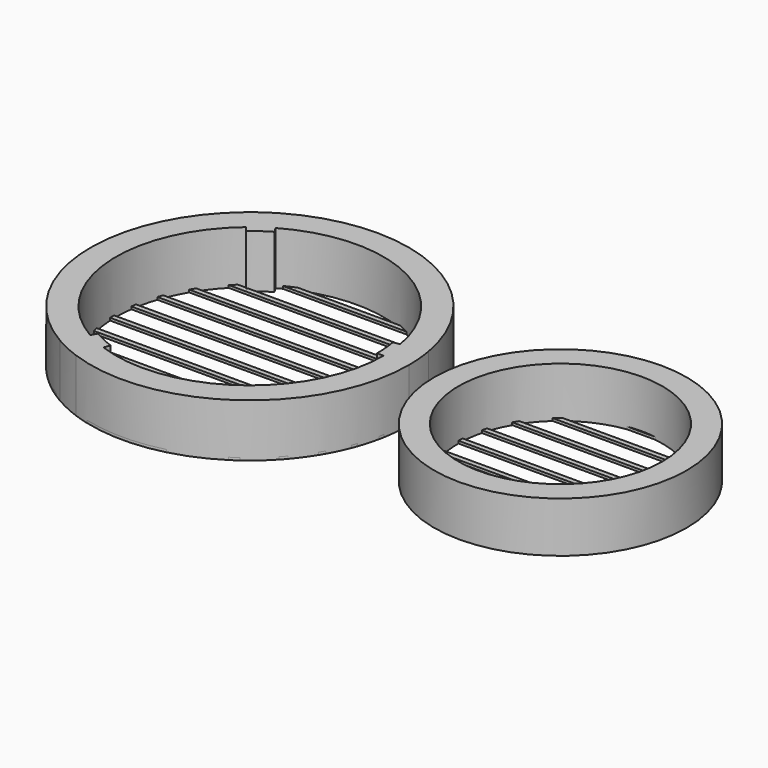
from build123d import *

# Parameters (mm, degrees)
BOX_W             = 50
BOX_H             = 1
BOX_DEPTH         = 0.5
ARRAY_Y_COUNT     = 11
ARRAY_Y_PITCH     = 5
CYLINDER001_R     = 25
CYLINDER001_DEPTH = 10
CYLINDER_R        = 20.2
CYLINDER_DEPTH    = 50
CYLINDER004_R     = 26.5
CYLINDER004_DEPTH = 10.5
CYLINDER002_R     = 31.5
CYLINDER002_DEPTH = 10.5
BOX001_W          = 63
BOX001_H          = 1
BOX001_DEPTH      = 0.5
ARRAY002_Y_COUNT  = 14
ARRAY002_Y_PITCH  = 5
CYLINDER003_R     = 25.2
CYLINDER003_DEPTH = 10.5
CYLINDER005_W     = 31.5
CYLINDER005_H     = 10.5
CYLINDER005_ANGLE = 10
ARRAY001_COUNT    = 3


with BuildPart() as obj1:
    # Box → Box (new body)
    with BuildSketch(Plane(origin=(-25, -25, 0), x_dir=(1, 0, 0), z_dir=(0, 0, 1))):
        with Locations((25, 0.5)):
            Rectangle(BOX_W, BOX_H)
    extrude(amount=BOX_DEPTH)

    # Array Y: obj1 ×11


with BuildPart() as obj1_1:
    add(obj1.part)
    with Locations(*[(0, i * ARRAY_Y_PITCH, 0) for i in range(1, ARRAY_Y_COUNT)]):
        add(obj1.part)


with BuildPart() as firstcylinder:
    # Cylinder001 → Cylinder001 (new body)
    with BuildSketch(Plane.XY):
        Circle(CYLINDER001_R)
    extrude(amount=CYLINDER001_DEPTH)


with BuildPart() as obj2:
    # Common base: copy of FirstCylinder
    add(firstcylinder.part)

    # Common: intersect obj1
    add(obj1_1.part, mode=Mode.INTERSECT)


with BuildPart() as tubecutcylinder:
    # Cylinder → Cylinder (new body)
    with BuildSketch(Plane.XY):
        Circle(CYLINDER_R)
    extrude(amount=CYLINDER_DEPTH)


with BuildPart() as first_lid:
    # Cut base: copy of FirstCylinder
    add(firstcylinder.part)

    # Cut: cut TubeCutCylinder
    add(tubecutcylinder.part, mode=Mode.SUBTRACT)

    # Fusion: union obj2
    add(obj2.part)


with BuildPart() as first_lid_1:
    # Fusion placement: moved
    add(first_lid.part.moved(Location((61.5, 0, 0))))


with BuildPart() as secondcylindercut:
    # Cylinder004 → Cylinder004 (new body)
    with BuildSketch(Plane.XY):
        Circle(CYLINDER004_R)
    extrude(amount=CYLINDER004_DEPTH)


with BuildPart() as secondcylinder:
    # Cylinder002 → Cylinder002 (new body)
    with BuildSketch(Plane.XY):
        Circle(CYLINDER002_R)
    extrude(amount=CYLINDER002_DEPTH)


with BuildPart() as secondlid:
    # Cut001 base: copy of SecondCylinder
    add(secondcylinder.part)

    # Cut001: cut SecondCylinderCut
    add(secondcylindercut.part, mode=Mode.SUBTRACT)


with BuildPart() as obj3:
    # Box001 → Box001 (new body)
    with BuildSketch(Plane(origin=(-31.5, -31.5, 0), x_dir=(1, 0, 0), z_dir=(0, 0, 1))):
        with Locations((31.5, 0.5)):
            Rectangle(BOX001_W, BOX001_H)
    extrude(amount=BOX001_DEPTH)

    # Array002 Y: obj3 ×14


with BuildPart() as obj3_1:
    add(obj3.part)
    with Locations(*[(0, i * ARRAY002_Y_PITCH, 0) for i in range(1, ARRAY002_Y_COUNT)]):
        add(obj3.part)

    # Common001: intersect SecondCylinder
    add(secondcylinder.part, mode=Mode.INTERSECT)


with BuildPart() as secondcylindergripcut:
    # Cylinder003 → Cylinder003 (new body)
    with BuildSketch(Plane.XY):
        Circle(CYLINDER003_R)
    extrude(amount=CYLINDER003_DEPTH)


with BuildPart() as second_lid:
    # Cylinder005 → Cylinder005 (revolve)
    with BuildSketch(Plane.XZ):
        with Locations((15.75, 5.25)):
            Rectangle(CYLINDER005_W, CYLINDER005_H)
    revolve(axis=Axis((0, 0, 0), (0, 0, 1)), revolution_arc=CYLINDER005_ANGLE)

    # Array001: Second Lid ×3 about axis
    array001_axis = Axis((0, 0, 0), (0, 0, 1))


with BuildPart() as second_lid_1:
    add(second_lid.part)
    for i in range(1, ARRAY001_COUNT):
        add(second_lid.part.rotate(array001_axis, i * 360 / ARRAY001_COUNT))

    # Cut002: cut SecondCylinderGripCut
    add(secondcylindergripcut.part, mode=Mode.SUBTRACT)

    # Fusion001: union SecondLid, obj3
    add(secondlid.part)
    add(obj3_1.part)


solid = Compound([first_lid_1.part, second_lid_1.part])
